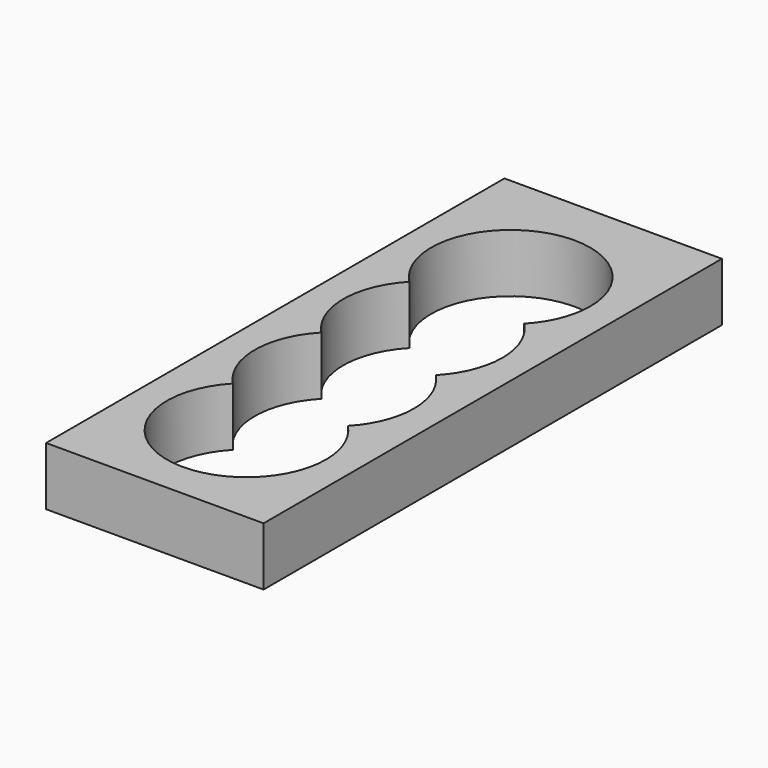
from build123d import *

# Parameters (mm, degrees)
F0_W     = 41
F0_H     = 108
F1_DEPTH = 11


with BuildPart() as f1:
    # F0 (on Top) → F1 (new body)
    with BuildSketch(Plane.XY):
        with BuildLine():
            ThreePointArc((5.706968, -5.714822), (7.712615, -8.087528), (8.791989, -11.000826))
            ThreePointArc((8.791989, -11.000826), (11.232354, -10.554221), (12.600096, -12.624032))
            ThreePointArc((12.600096, -12.624032), (11.232354, -14.693844), (8.791989, -14.247239))
            ThreePointArc((8.791989, -14.247239), (7.713498, -17.159023), (5.709659, -19.530996))
            ThreePointArc((5.709659, -19.530996), (8.425965, -20.996255), (10.784891, -22.986424))
            ThreePointArc((10.784891, -22.986424), (13.862215, -18.206159), (14.939576, -12.624032))
            ThreePointArc((14.939576, -12.624032), (13.862843, -7.043472), (10.787222, -2.264082))
            ThreePointArc((10.787222, -2.264082), (8.425588, -4.252233), (5.706968, -5.714822))
        make_face()
        with BuildLine():
            ThreePointArc((-8.919726, -11.038862), (-7.830592, -8.082615), (-5.789315, -5.682866))
            ThreePointArc((-5.789315, -5.682866), (-8.499762, -4.205185), (-10.850307, -2.203935))
            ThreePointArc((-10.850307, -2.203935), (-15.060422, -12.616237), (-10.861132, -23.032909))
            ThreePointArc((-10.861132, -23.032909), (-8.510775, -21.032627), (-5.800788, -19.555715))
            ThreePointArc((-5.800788, -19.555715), (-7.814796, -17.19237), (-8.905782, -14.285245))
            ThreePointArc((-8.905782, -14.285245), (-12.720827, -12.678409), (-8.919726, -11.038862))
        make_face()
        with BuildLine():
            ThreePointArc((5.603682, 1.265457), (8.381963, -0.225399), (10.787222, -2.264082))
            ThreePointArc((10.787222, -2.264082), (13.905039, 2.536774), (14.997339, 8.156016))
            ThreePointArc((14.997339, 8.156016), (13.878906, 13.839509), (10.690392, 18.675455))
            ThreePointArc((10.690392, 18.675455), (8.324534, 16.666348), (5.595827, 15.187174))
            ThreePointArc((5.595827, 15.187174), (7.57988, 12.907076), (8.697198, 10.09871))
            ThreePointArc((8.697198, 10.09871), (11.379114, 10.5015), (12.850096, 8.223097))
            ThreePointArc((12.850096, 8.223097), (11.379114, 5.944693), (8.697198, 6.347483))
            ThreePointArc((8.697198, 6.347483), (7.582521, 3.543455), (5.603682, 1.265457))
        make_face()
        with BuildLine():
            ThreePointArc((-10.842957, 18.523657), (-15.00266, 8.161334), (-10.850307, -2.203935))
            ThreePointArc((-10.850307, -2.203935), (-8.49497, -0.220064), (-5.784132, 1.241002))
            ThreePointArc((-5.784132, 1.241002), (-7.772737, 3.510479), (-8.899446, 6.309695))
            ThreePointArc((-8.899446, 6.309695), (-13.060362, 8.167454), (-8.915558, 10.060887))
            ThreePointArc((-8.915558, 10.060887), (-7.810312, 12.874025), (-5.83607, 15.162624))
            ThreePointArc((-5.83607, 15.162624), (-8.510157, 16.588935), (-10.842957, 18.523657))
        make_face()
        with Locations((0, -1)):
            Rectangle(F0_W, F0_H)
        with BuildLine():
            ThreePointArc((14.997339, 8.156016), (13.905039, 2.536774), (10.787222, -2.264082))
            ThreePointArc((10.787222, -2.264082), (13.862843, -7.043472), (14.939576, -12.624032))
            ThreePointArc((14.939576, -12.624032), (13.862215, -18.206159), (10.784891, -22.986424))
            ThreePointArc((10.784891, -22.986424), (13.894801, -27.783287), (14.984183, -33.3953))
            ThreePointArc((14.984183, -33.3953), (-5.597944, -47.317938), (-10.861132, -23.032909))
            ThreePointArc((-10.861132, -23.032909), (-15.060422, -12.616237), (-10.850307, -2.203935))
            ThreePointArc((-10.850307, -2.203935), (-15.00266, 8.161334), (-10.842957, 18.523657))
            ThreePointArc((-10.842957, 18.523657), (-5.833397, 42.924664), (14.850096, 29.043097))
            ThreePointArc((14.850096, 29.043097), (13.771383, 23.457599), (10.690392, 18.675455))
            ThreePointArc((10.690392, 18.675455), (13.878906, 13.839509), (14.997339, 8.156016))
        make_face(mode=Mode.SUBTRACT)
    extrude(amount=F1_DEPTH)


solid = f1.part
